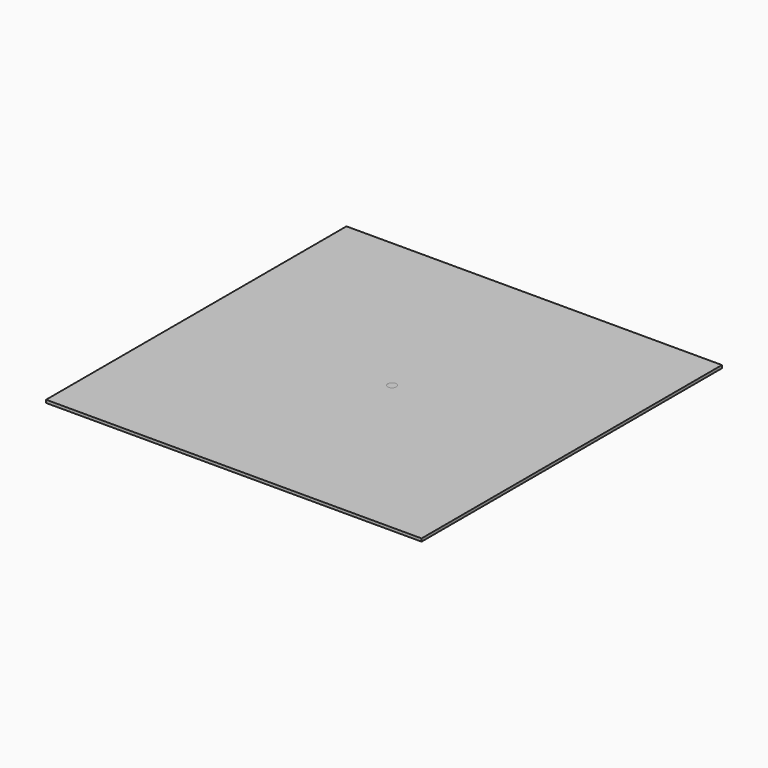
from build123d import *

# Parameters (mm, degrees)
F0_W     = 130
F0_H     = 130
F0_R     = 1.5
F1_DEPTH = 1
F2_W     = 130
F2_H     = 130
F2_R     = 2
F2_R_2   = 1.75
F2_R_3   = 1.5
F2_R_4   = 1.25
F2_R_5   = 1
F3_DEPTH = 1
F4_W     = 130
F4_H     = 130
F4_R     = 1.5
F5_DEPTH = 1
F6_W     = 130
F6_H     = 130
F6_R     = 1.5
F7_DEPTH = 1


with BuildPart() as f1:
    # F0 (on Top) → F1 (new body)
    with BuildSketch(Plane.XY):
        Rectangle(F0_W, F0_H)
        with Locations((-50, -50)):
            Circle(F0_R, mode=Mode.SUBTRACT)
        with Locations((-40, -50)):
            Circle(F0_R, mode=Mode.SUBTRACT)
        with Locations((-50, -40)):
            Circle(F0_R, mode=Mode.SUBTRACT)
        with Locations((-40, -40)):
            Circle(F0_R, mode=Mode.SUBTRACT)
        with Locations((-30, -50)):
            Circle(F0_R, mode=Mode.SUBTRACT)
        with Locations((-20, -50)):
            Circle(F0_R, mode=Mode.SUBTRACT)
        with Locations((-10, -50)):
            Circle(F0_R, mode=Mode.SUBTRACT)
        with Locations((-30, -40)):
            Circle(F0_R, mode=Mode.SUBTRACT)
        with Locations((-20, -40)):
            Circle(F0_R, mode=Mode.SUBTRACT)
        with Locations((-10, -40)):
            Circle(F0_R, mode=Mode.SUBTRACT)
        with Locations((-50, -30)):
            Circle(F0_R, mode=Mode.SUBTRACT)
        with Locations((-50, -20)):
            Circle(F0_R, mode=Mode.SUBTRACT)
        with Locations((-40, -30)):
            Circle(F0_R, mode=Mode.SUBTRACT)
        with Locations((-40, -20)):
            Circle(F0_R, mode=Mode.SUBTRACT)
        with Locations((-50, -10)):
            Circle(F0_R, mode=Mode.SUBTRACT)
        with Locations((-40, -10)):
            Circle(F0_R, mode=Mode.SUBTRACT)
        with Locations((-30, -30)):
            Circle(F0_R, mode=Mode.SUBTRACT)
        with Locations((-20, -30)):
            Circle(F0_R, mode=Mode.SUBTRACT)
        with Locations((-30, -20)):
            Circle(F0_R, mode=Mode.SUBTRACT)
        with Locations((-20, -20)):
            Circle(F0_R, mode=Mode.SUBTRACT)
        with Locations((-10, -30)):
            Circle(F0_R, mode=Mode.SUBTRACT)
        with Locations((-10, -20)):
            Circle(F0_R, mode=Mode.SUBTRACT)
        with Locations((-30, -10)):
            Circle(F0_R, mode=Mode.SUBTRACT)
        with Locations((-20, -10)):
            Circle(F0_R, mode=Mode.SUBTRACT)
        with Locations((-10, -10)):
            Circle(F0_R, mode=Mode.SUBTRACT)
        with Locations((0, -50)):
            Circle(F0_R, mode=Mode.SUBTRACT)
        with Locations((10, -50)):
            Circle(F0_R, mode=Mode.SUBTRACT)
        with Locations((20, -50)):
            Circle(F0_R, mode=Mode.SUBTRACT)
        with Locations((30, -50)):
            Circle(F0_R, mode=Mode.SUBTRACT)
        with Locations((0, -40)):
            Circle(F0_R, mode=Mode.SUBTRACT)
        with Locations((10, -40)):
            Circle(F0_R, mode=Mode.SUBTRACT)
        with Locations((20, -40)):
            Circle(F0_R, mode=Mode.SUBTRACT)
        with Locations((30, -40)):
            Circle(F0_R, mode=Mode.SUBTRACT)
        with Locations((40, -50)):
            Circle(F0_R, mode=Mode.SUBTRACT)
        with Locations((50, -50)):
            Circle(F0_R, mode=Mode.SUBTRACT)
        with Locations((40, -40)):
            Circle(F0_R, mode=Mode.SUBTRACT)
        with Locations((50, -40)):
            Circle(F0_R, mode=Mode.SUBTRACT)
        with Locations((0, -30)):
            Circle(F0_R, mode=Mode.SUBTRACT)
        with Locations((10, -30)):
            Circle(F0_R, mode=Mode.SUBTRACT)
        with Locations((0, -20)):
            Circle(F0_R, mode=Mode.SUBTRACT)
        with Locations((10, -20)):
            Circle(F0_R, mode=Mode.SUBTRACT)
        with Locations((20, -30)):
            Circle(F0_R, mode=Mode.SUBTRACT)
        with Locations((30, -30)):
            Circle(F0_R, mode=Mode.SUBTRACT)
        with Locations((20, -20)):
            Circle(F0_R, mode=Mode.SUBTRACT)
        with Locations((30, -20)):
            Circle(F0_R, mode=Mode.SUBTRACT)
        with Locations((0, -10)):
            Circle(F0_R, mode=Mode.SUBTRACT)
        with Locations((10, -10)):
            Circle(F0_R, mode=Mode.SUBTRACT)
        with Locations((20, -10)):
            Circle(F0_R, mode=Mode.SUBTRACT)
        with Locations((30, -10)):
            Circle(F0_R, mode=Mode.SUBTRACT)
        with Locations((40, -30)):
            Circle(F0_R, mode=Mode.SUBTRACT)
        with Locations((40, -20)):
            Circle(F0_R, mode=Mode.SUBTRACT)
        with Locations((50, -30)):
            Circle(F0_R, mode=Mode.SUBTRACT)
        with Locations((50, -20)):
            Circle(F0_R, mode=Mode.SUBTRACT)
        with Locations((40, -10)):
            Circle(F0_R, mode=Mode.SUBTRACT)
        with Locations((50, -10)):
            Circle(F0_R, mode=Mode.SUBTRACT)
        with Locations((-50, 0)):
            Circle(F0_R, mode=Mode.SUBTRACT)
        with Locations((-50, 10)):
            Circle(F0_R, mode=Mode.SUBTRACT)
        with Locations((-40, 0)):
            Circle(F0_R, mode=Mode.SUBTRACT)
        with Locations((-40, 10)):
            Circle(F0_R, mode=Mode.SUBTRACT)
        with Locations((-50, 20)):
            Circle(F0_R, mode=Mode.SUBTRACT)
        with Locations((-50, 30)):
            Circle(F0_R, mode=Mode.SUBTRACT)
        with Locations((-40, 20)):
            Circle(F0_R, mode=Mode.SUBTRACT)
        with Locations((-40, 30)):
            Circle(F0_R, mode=Mode.SUBTRACT)
        with Locations((-30, 0)):
            Circle(F0_R, mode=Mode.SUBTRACT)
        with Locations((-20, 0)):
            Circle(F0_R, mode=Mode.SUBTRACT)
        with Locations((-30, 10)):
            Circle(F0_R, mode=Mode.SUBTRACT)
        with Locations((-20, 10)):
            Circle(F0_R, mode=Mode.SUBTRACT)
        with Locations((-10, 0)):
            Circle(F0_R, mode=Mode.SUBTRACT)
        with Locations((-10, 10)):
            Circle(F0_R, mode=Mode.SUBTRACT)
        with Locations((-30, 20)):
            Circle(F0_R, mode=Mode.SUBTRACT)
        with Locations((-20, 20)):
            Circle(F0_R, mode=Mode.SUBTRACT)
        with Locations((-30, 30)):
            Circle(F0_R, mode=Mode.SUBTRACT)
        with Locations((-20, 30)):
            Circle(F0_R, mode=Mode.SUBTRACT)
        with Locations((-10, 20)):
            Circle(F0_R, mode=Mode.SUBTRACT)
        with Locations((-10, 30)):
            Circle(F0_R, mode=Mode.SUBTRACT)
        with Locations((-50, 40)):
            Circle(F0_R, mode=Mode.SUBTRACT)
        with Locations((-40, 40)):
            Circle(F0_R, mode=Mode.SUBTRACT)
        with Locations((-50, 50)):
            Circle(F0_R, mode=Mode.SUBTRACT)
        with Locations((-40, 50)):
            Circle(F0_R, mode=Mode.SUBTRACT)
        with Locations((-30, 40)):
            Circle(F0_R, mode=Mode.SUBTRACT)
        with Locations((-20, 40)):
            Circle(F0_R, mode=Mode.SUBTRACT)
        with Locations((-10, 40)):
            Circle(F0_R, mode=Mode.SUBTRACT)
        with Locations((-30, 50)):
            Circle(F0_R, mode=Mode.SUBTRACT)
        with Locations((-20, 50)):
            Circle(F0_R, mode=Mode.SUBTRACT)
        with Locations((-10, 50)):
            Circle(F0_R, mode=Mode.SUBTRACT)
        Circle(F0_R, mode=Mode.SUBTRACT)
        with Locations((10, 0)):
            Circle(F0_R, mode=Mode.SUBTRACT)
        with Locations((0, 10)):
            Circle(F0_R, mode=Mode.SUBTRACT)
        with Locations((10, 10)):
            Circle(F0_R, mode=Mode.SUBTRACT)
        with Locations((20, 0)):
            Circle(F0_R, mode=Mode.SUBTRACT)
        with Locations((30, 0)):
            Circle(F0_R, mode=Mode.SUBTRACT)
        with Locations((20, 10)):
            Circle(F0_R, mode=Mode.SUBTRACT)
        with Locations((30, 10)):
            Circle(F0_R, mode=Mode.SUBTRACT)
        with Locations((0, 20)):
            Circle(F0_R, mode=Mode.SUBTRACT)
        with Locations((10, 20)):
            Circle(F0_R, mode=Mode.SUBTRACT)
        with Locations((0, 30)):
            Circle(F0_R, mode=Mode.SUBTRACT)
        with Locations((10, 30)):
            Circle(F0_R, mode=Mode.SUBTRACT)
        with Locations((20, 20)):
            Circle(F0_R, mode=Mode.SUBTRACT)
        with Locations((30, 20)):
            Circle(F0_R, mode=Mode.SUBTRACT)
        with Locations((20, 30)):
            Circle(F0_R, mode=Mode.SUBTRACT)
        with Locations((30, 30)):
            Circle(F0_R, mode=Mode.SUBTRACT)
        with Locations((40, 0)):
            Circle(F0_R, mode=Mode.SUBTRACT)
        with Locations((40, 10)):
            Circle(F0_R, mode=Mode.SUBTRACT)
        with Locations((50, 0)):
            Circle(F0_R, mode=Mode.SUBTRACT)
        with Locations((50, 10)):
            Circle(F0_R, mode=Mode.SUBTRACT)
        with Locations((40, 20)):
            Circle(F0_R, mode=Mode.SUBTRACT)
        with Locations((40, 30)):
            Circle(F0_R, mode=Mode.SUBTRACT)
        with Locations((50, 20)):
            Circle(F0_R, mode=Mode.SUBTRACT)
        with Locations((50, 30)):
            Circle(F0_R, mode=Mode.SUBTRACT)
        with Locations((0, 40)):
            Circle(F0_R, mode=Mode.SUBTRACT)
        with Locations((10, 40)):
            Circle(F0_R, mode=Mode.SUBTRACT)
        with Locations((20, 40)):
            Circle(F0_R, mode=Mode.SUBTRACT)
        with Locations((30, 40)):
            Circle(F0_R, mode=Mode.SUBTRACT)
        with Locations((0, 50)):
            Circle(F0_R, mode=Mode.SUBTRACT)
        with Locations((10, 50)):
            Circle(F0_R, mode=Mode.SUBTRACT)
        with Locations((20, 50)):
            Circle(F0_R, mode=Mode.SUBTRACT)
        with Locations((30, 50)):
            Circle(F0_R, mode=Mode.SUBTRACT)
        with Locations((40, 40)):
            Circle(F0_R, mode=Mode.SUBTRACT)
        with Locations((50, 40)):
            Circle(F0_R, mode=Mode.SUBTRACT)
        with Locations((40, 50)):
            Circle(F0_R, mode=Mode.SUBTRACT)
        with Locations((50, 50)):
            Circle(F0_R, mode=Mode.SUBTRACT)
    extrude(amount=F1_DEPTH)


with BuildPart() as f3:
    # F2 (on Top) → F3 (new body)
    with BuildSketch(Plane.XY):
        Rectangle(F2_W, F2_H)
        with Locations((-42.423982, -50.558933)):
            Circle(F2_R, mode=Mode.SUBTRACT)
        with Locations((-50.558933, -42.423982)):
            Circle(F2_R, mode=Mode.SUBTRACT)
        with Locations((-34.482378, -38.922559)):
            Circle(F2_R, mode=Mode.SUBTRACT)
        with Locations((-12.444415, -50.488975)):
            Circle(F2_R, mode=Mode.SUBTRACT)
        with Locations((-24.165605, -46.043713)):
            Circle(F2_R, mode=Mode.SUBTRACT)
        with Locations((-16.696275, -35.931143)):
            Circle(F2_R_2, mode=Mode.SUBTRACT)
        with Locations((-4.775767, -39.331981)):
            Circle(F2_R_2, mode=Mode.SUBTRACT)
        with Locations((-42.795161, -29.539367)):
            Circle(F2_R, mode=Mode.SUBTRACT)
        with Locations((-48.620845, -18.439454)):
            Circle(F2_R, mode=Mode.SUBTRACT)
        with Locations((-34.627366, -19.255081)):
            Circle(F2_R_2, mode=Mode.SUBTRACT)
        with Locations((-51.620861, -6.267907)):
            Circle(F2_R, mode=Mode.SUBTRACT)
        with Locations((-38.88273, -7.612226)):
            Circle(F2_R_2, mode=Mode.SUBTRACT)
        with Locations((-26.982435, -29.013115)):
            Circle(F2_R_2, mode=Mode.SUBTRACT)
        with Locations((-20.647518, -20.647518)):
            Circle(F2_R_3, mode=Mode.SUBTRACT)
        with Locations((-11.174356, -26.977282)):
            Circle(F2_R_3, mode=Mode.SUBTRACT)
        with Locations((-8.024249, -17.132932)):
            Circle(F2_R_4, mode=Mode.SUBTRACT)
        with Locations((-26.977282, -11.174356)):
            Circle(F2_R_3, mode=Mode.SUBTRACT)
        with Locations((-18.658419, -3.128787)):
            Circle(F2_R_4, mode=Mode.SUBTRACT)
        with Locations((-15.06719, -11.441403)):
            Circle(F2_R_4, mode=Mode.SUBTRACT)
        with Locations((-6.306936, -8.680752)):
            Circle(F2_R_5, mode=Mode.SUBTRACT)
        with Locations((-10.204836, -3.315752)):
            Circle(F2_R_5, mode=Mode.SUBTRACT)
        with Locations((-3.806293, -2.765433)):
            Circle(F2_R_5, mode=Mode.SUBTRACT)
        with Locations((0, -52)):
            Circle(F2_R, mode=Mode.SUBTRACT)
        with Locations((12.444415, -50.488975)):
            Circle(F2_R, mode=Mode.SUBTRACT)
        with Locations((7.612226, -38.88273)):
            Circle(F2_R_2, mode=Mode.SUBTRACT)
        with Locations((24.165605, -46.043713)):
            Circle(F2_R, mode=Mode.SUBTRACT)
        with Locations((19.255081, -34.627366)):
            Circle(F2_R_2, mode=Mode.SUBTRACT)
        with Locations((42.423982, -50.558933)):
            Circle(F2_R, mode=Mode.SUBTRACT)
        with Locations((34.482378, -38.922559)):
            Circle(F2_R, mode=Mode.SUBTRACT)
        with Locations((50.558933, -42.423982)):
            Circle(F2_R, mode=Mode.SUBTRACT)
        with Locations((0, -29.2)):
            Circle(F2_R_3, mode=Mode.SUBTRACT)
        with Locations((11.174356, -26.977282)):
            Circle(F2_R_3, mode=Mode.SUBTRACT)
        with Locations((0.856951, -18.899512)):
            Circle(F2_R_4, mode=Mode.SUBTRACT)
        with Locations((9.541833, -16.336442)):
            Circle(F2_R_4, mode=Mode.SUBTRACT)
        with Locations((29.013115, -26.982435)):
            Circle(F2_R_2, mode=Mode.SUBTRACT)
        with Locations((20.647518, -20.647518)):
            Circle(F2_R_3, mode=Mode.SUBTRACT)
        with Locations((0, -10.73)):
            Circle(F2_R_5, mode=Mode.SUBTRACT)
        with Locations((6.306936, -8.680752)):
            Circle(F2_R_5, mode=Mode.SUBTRACT)
        with Locations((16.040797, -10.03089)):
            Circle(F2_R_4, mode=Mode.SUBTRACT)
        with Locations((1.453874, -4.474565)):
            Circle(F2_R_5, mode=Mode.SUBTRACT)
        with Locations((10.204836, -3.315752)):
            Circle(F2_R_5, mode=Mode.SUBTRACT)
        with Locations((26.977282, -11.174356)):
            Circle(F2_R_3, mode=Mode.SUBTRACT)
        with Locations((18.865007, -1.427382)):
            Circle(F2_R_4, mode=Mode.SUBTRACT)
        with Locations((42.795161, -29.539367)):
            Circle(F2_R, mode=Mode.SUBTRACT)
        with Locations((35.931143, -16.696275)):
            Circle(F2_R_2, mode=Mode.SUBTRACT)
        with Locations((48.620845, -18.439454)):
            Circle(F2_R, mode=Mode.SUBTRACT)
        with Locations((39.331981, -4.775767)):
            Circle(F2_R_2, mode=Mode.SUBTRACT)
        with Locations((51.620861, -6.267907)):
            Circle(F2_R, mode=Mode.SUBTRACT)
        with Locations((-51.620861, 6.267907)):
            Circle(F2_R, mode=Mode.SUBTRACT)
        with Locations((-39.331981, 4.775767)):
            Circle(F2_R_2, mode=Mode.SUBTRACT)
        with Locations((-48.620845, 18.439454)):
            Circle(F2_R, mode=Mode.SUBTRACT)
        with Locations((-35.931143, 16.696275)):
            Circle(F2_R_2, mode=Mode.SUBTRACT)
        with Locations((-42.795161, 29.539367)):
            Circle(F2_R, mode=Mode.SUBTRACT)
        with Locations((-29.2, 0)):
            Circle(F2_R_3, mode=Mode.SUBTRACT)
        with Locations((-17.97523, 5.900597)):
            Circle(F2_R_4, mode=Mode.SUBTRACT)
        with Locations((-26.977282, 11.174356)):
            Circle(F2_R_3, mode=Mode.SUBTRACT)
        with Locations((-10.204836, 3.315752)):
            Circle(F2_R_5, mode=Mode.SUBTRACT)
        with Locations((-3.806293, 2.765433)):
            Circle(F2_R_5, mode=Mode.SUBTRACT)
        with Locations((-13.174131, 13.578225)):
            Circle(F2_R_4, mode=Mode.SUBTRACT)
        with Locations((-6.306936, 8.680752)):
            Circle(F2_R_5, mode=Mode.SUBTRACT)
        with Locations((-20.647518, 20.647518)):
            Circle(F2_R_3, mode=Mode.SUBTRACT)
        with Locations((-29.013115, 26.982435)):
            Circle(F2_R_2, mode=Mode.SUBTRACT)
        with Locations((-5.354998, 18.145245)):
            Circle(F2_R_4, mode=Mode.SUBTRACT)
        with Locations((-11.174356, 26.977282)):
            Circle(F2_R_3, mode=Mode.SUBTRACT)
        with Locations((-50.558933, 42.423982)):
            Circle(F2_R, mode=Mode.SUBTRACT)
        with Locations((-34.482378, 38.922559)):
            Circle(F2_R, mode=Mode.SUBTRACT)
        with Locations((-42.423982, 50.558933)):
            Circle(F2_R, mode=Mode.SUBTRACT)
        with Locations((-19.255081, 34.627366)):
            Circle(F2_R_2, mode=Mode.SUBTRACT)
        with Locations((-24.165605, 46.043713)):
            Circle(F2_R, mode=Mode.SUBTRACT)
        with Locations((-7.612226, 38.88273)):
            Circle(F2_R_2, mode=Mode.SUBTRACT)
        with Locations((-12.444415, 50.488975)):
            Circle(F2_R, mode=Mode.SUBTRACT)
        Circle(F2_R_5, mode=Mode.SUBTRACT)
        with Locations((4.704836, 0)):
            Circle(F2_R_5, mode=Mode.SUBTRACT)
        with Locations((1.453874, 4.474565)):
            Circle(F2_R_5, mode=Mode.SUBTRACT)
        with Locations((10.204836, 3.315752)):
            Circle(F2_R_5, mode=Mode.SUBTRACT)
        with Locations((0, 10.73)):
            Circle(F2_R_5, mode=Mode.SUBTRACT)
        with Locations((6.306936, 8.680752)):
            Circle(F2_R_5, mode=Mode.SUBTRACT)
        with Locations((11.891258, 14.714751)):
            Circle(F2_R_4, mode=Mode.SUBTRACT)
        with Locations((17.367472, 7.503122)):
            Circle(F2_R_4, mode=Mode.SUBTRACT)
        with Locations((29.2, 0)):
            Circle(F2_R_3, mode=Mode.SUBTRACT)
        with Locations((26.977282, 11.174356)):
            Circle(F2_R_3, mode=Mode.SUBTRACT)
        with Locations((3.6909, 18.555408)):
            Circle(F2_R_4, mode=Mode.SUBTRACT)
        with Locations((0, 29.2)):
            Circle(F2_R_3, mode=Mode.SUBTRACT)
        with Locations((11.174356, 26.977282)):
            Circle(F2_R_3, mode=Mode.SUBTRACT)
        with Locations((20.647518, 20.647518)):
            Circle(F2_R_3, mode=Mode.SUBTRACT)
        with Locations((26.982435, 29.013115)):
            Circle(F2_R_2, mode=Mode.SUBTRACT)
        with Locations((38.88273, 7.612226)):
            Circle(F2_R_2, mode=Mode.SUBTRACT)
        with Locations((51.620861, 6.267907)):
            Circle(F2_R, mode=Mode.SUBTRACT)
        with Locations((34.627366, 19.255081)):
            Circle(F2_R_2, mode=Mode.SUBTRACT)
        with Locations((48.620845, 18.439454)):
            Circle(F2_R, mode=Mode.SUBTRACT)
        with Locations((42.795161, 29.539367)):
            Circle(F2_R, mode=Mode.SUBTRACT)
        with Locations((4.775767, 39.331981)):
            Circle(F2_R_2, mode=Mode.SUBTRACT)
        with Locations((16.696275, 35.931143)):
            Circle(F2_R_2, mode=Mode.SUBTRACT)
        with Locations((24.165605, 46.043713)):
            Circle(F2_R, mode=Mode.SUBTRACT)
        with Locations((0, 52)):
            Circle(F2_R, mode=Mode.SUBTRACT)
        with Locations((12.444415, 50.488975)):
            Circle(F2_R, mode=Mode.SUBTRACT)
        with Locations((34.482378, 38.922559)):
            Circle(F2_R, mode=Mode.SUBTRACT)
        with Locations((50.558933, 42.423982)):
            Circle(F2_R, mode=Mode.SUBTRACT)
        with Locations((42.423982, 50.558933)):
            Circle(F2_R, mode=Mode.SUBTRACT)
    extrude(amount=F3_DEPTH)


with BuildPart() as f5:
    # F4 (on Top) → F5 (new body)
    with BuildSketch(Plane.XY):
        Rectangle(F4_W, F4_H)
        with Locations((-52, -52)):
            Circle(F4_R, mode=Mode.SUBTRACT)
        with Locations((-39, -52)):
            Circle(F4_R, mode=Mode.SUBTRACT)
        with Locations((-52, -39)):
            Circle(F4_R, mode=Mode.SUBTRACT)
        with Locations((-45.5, -45.5)):
            Circle(F4_R, mode=Mode.SUBTRACT)
        with Locations((-39, -39)):
            Circle(F4_R, mode=Mode.SUBTRACT)
        with Locations((-26, -52)):
            Circle(F4_R, mode=Mode.SUBTRACT)
        with Locations((-13, -52)):
            Circle(F4_R, mode=Mode.SUBTRACT)
        with Locations((-32.5, -45.5)):
            Circle(F4_R, mode=Mode.SUBTRACT)
        with Locations((-19.5, -45.5)):
            Circle(F4_R, mode=Mode.SUBTRACT)
        with Locations((-26, -39)):
            Circle(F4_R, mode=Mode.SUBTRACT)
        with Locations((-6.5, -45.5)):
            Circle(F4_R, mode=Mode.SUBTRACT)
        with Locations((-13, -39)):
            Circle(F4_R, mode=Mode.SUBTRACT)
        with Locations((-52, -26)):
            Circle(F4_R, mode=Mode.SUBTRACT)
        with Locations((-45.5, -32.5)):
            Circle(F4_R, mode=Mode.SUBTRACT)
        with Locations((-39, -26)):
            Circle(F4_R, mode=Mode.SUBTRACT)
        with Locations((-45.5, -19.5)):
            Circle(F4_R, mode=Mode.SUBTRACT)
        with Locations((-52, -13)):
            Circle(F4_R, mode=Mode.SUBTRACT)
        with Locations((-39, -13)):
            Circle(F4_R, mode=Mode.SUBTRACT)
        with Locations((-45.5, -6.5)):
            Circle(F4_R, mode=Mode.SUBTRACT)
        with Locations((-32.5, -32.5)):
            Circle(F4_R, mode=Mode.SUBTRACT)
        with Locations((-26, -26)):
            Circle(F4_R, mode=Mode.SUBTRACT)
        with Locations((-19.5, -32.5)):
            Circle(F4_R, mode=Mode.SUBTRACT)
        with Locations((-32.5, -19.5)):
            Circle(F4_R, mode=Mode.SUBTRACT)
        with Locations((-19.5, -19.5)):
            Circle(F4_R, mode=Mode.SUBTRACT)
        with Locations((-13, -26)):
            Circle(F4_R, mode=Mode.SUBTRACT)
        with Locations((-6.5, -32.5)):
            Circle(F4_R, mode=Mode.SUBTRACT)
        with Locations((-6.5, -19.5)):
            Circle(F4_R, mode=Mode.SUBTRACT)
        with Locations((-26, -13)):
            Circle(F4_R, mode=Mode.SUBTRACT)
        with Locations((-32.5, -6.5)):
            Circle(F4_R, mode=Mode.SUBTRACT)
        with Locations((-19.5, -6.5)):
            Circle(F4_R, mode=Mode.SUBTRACT)
        with Locations((-13, -13)):
            Circle(F4_R, mode=Mode.SUBTRACT)
        with Locations((-6.5, -6.5)):
            Circle(F4_R, mode=Mode.SUBTRACT)
        with Locations((0, -52)):
            Circle(F4_R, mode=Mode.SUBTRACT)
        with Locations((13, -52)):
            Circle(F4_R, mode=Mode.SUBTRACT)
        with Locations((26, -52)):
            Circle(F4_R, mode=Mode.SUBTRACT)
        with Locations((6.5, -45.5)):
            Circle(F4_R, mode=Mode.SUBTRACT)
        with Locations((0, -39)):
            Circle(F4_R, mode=Mode.SUBTRACT)
        with Locations((13, -39)):
            Circle(F4_R, mode=Mode.SUBTRACT)
        with Locations((19.5, -45.5)):
            Circle(F4_R, mode=Mode.SUBTRACT)
        with Locations((26, -39)):
            Circle(F4_R, mode=Mode.SUBTRACT)
        with Locations((39, -52)):
            Circle(F4_R, mode=Mode.SUBTRACT)
        with Locations((52, -52)):
            Circle(F4_R, mode=Mode.SUBTRACT)
        with Locations((32.5, -45.5)):
            Circle(F4_R, mode=Mode.SUBTRACT)
        with Locations((45.5, -45.5)):
            Circle(F4_R, mode=Mode.SUBTRACT)
        with Locations((39, -39)):
            Circle(F4_R, mode=Mode.SUBTRACT)
        with Locations((52, -39)):
            Circle(F4_R, mode=Mode.SUBTRACT)
        with Locations((6.5, -32.5)):
            Circle(F4_R, mode=Mode.SUBTRACT)
        with Locations((0, -26)):
            Circle(F4_R, mode=Mode.SUBTRACT)
        with Locations((13, -26)):
            Circle(F4_R, mode=Mode.SUBTRACT)
        with Locations((6.5, -19.5)):
            Circle(F4_R, mode=Mode.SUBTRACT)
        with Locations((19.5, -32.5)):
            Circle(F4_R, mode=Mode.SUBTRACT)
        with Locations((26, -26)):
            Circle(F4_R, mode=Mode.SUBTRACT)
        with Locations((19.5, -19.5)):
            Circle(F4_R, mode=Mode.SUBTRACT)
        with Locations((0, -13)):
            Circle(F4_R, mode=Mode.SUBTRACT)
        with Locations((13, -13)):
            Circle(F4_R, mode=Mode.SUBTRACT)
        with Locations((6.5, -6.5)):
            Circle(F4_R, mode=Mode.SUBTRACT)
        with Locations((26, -13)):
            Circle(F4_R, mode=Mode.SUBTRACT)
        with Locations((19.5, -6.5)):
            Circle(F4_R, mode=Mode.SUBTRACT)
        with Locations((32.5, -32.5)):
            Circle(F4_R, mode=Mode.SUBTRACT)
        with Locations((39, -26)):
            Circle(F4_R, mode=Mode.SUBTRACT)
        with Locations((45.5, -32.5)):
            Circle(F4_R, mode=Mode.SUBTRACT)
        with Locations((32.5, -19.5)):
            Circle(F4_R, mode=Mode.SUBTRACT)
        with Locations((45.5, -19.5)):
            Circle(F4_R, mode=Mode.SUBTRACT)
        with Locations((52, -26)):
            Circle(F4_R, mode=Mode.SUBTRACT)
        with Locations((39, -13)):
            Circle(F4_R, mode=Mode.SUBTRACT)
        with Locations((32.5, -6.5)):
            Circle(F4_R, mode=Mode.SUBTRACT)
        with Locations((45.5, -6.5)):
            Circle(F4_R, mode=Mode.SUBTRACT)
        with Locations((52, -13)):
            Circle(F4_R, mode=Mode.SUBTRACT)
        with Locations((-52, 0)):
            Circle(F4_R, mode=Mode.SUBTRACT)
        with Locations((-52, 13)):
            Circle(F4_R, mode=Mode.SUBTRACT)
        with Locations((-45.5, 6.5)):
            Circle(F4_R, mode=Mode.SUBTRACT)
        with Locations((-39, 0)):
            Circle(F4_R, mode=Mode.SUBTRACT)
        with Locations((-39, 13)):
            Circle(F4_R, mode=Mode.SUBTRACT)
        with Locations((-52, 26)):
            Circle(F4_R, mode=Mode.SUBTRACT)
        with Locations((-45.5, 19.5)):
            Circle(F4_R, mode=Mode.SUBTRACT)
        with Locations((-39, 26)):
            Circle(F4_R, mode=Mode.SUBTRACT)
        with Locations((-26, 0)):
            Circle(F4_R, mode=Mode.SUBTRACT)
        with Locations((-32.5, 6.5)):
            Circle(F4_R, mode=Mode.SUBTRACT)
        with Locations((-19.5, 6.5)):
            Circle(F4_R, mode=Mode.SUBTRACT)
        with Locations((-26, 13)):
            Circle(F4_R, mode=Mode.SUBTRACT)
        with Locations((-13, 0)):
            Circle(F4_R, mode=Mode.SUBTRACT)
        with Locations((-6.5, 6.5)):
            Circle(F4_R, mode=Mode.SUBTRACT)
        with Locations((-13, 13)):
            Circle(F4_R, mode=Mode.SUBTRACT)
        with Locations((-32.5, 19.5)):
            Circle(F4_R, mode=Mode.SUBTRACT)
        with Locations((-19.5, 19.5)):
            Circle(F4_R, mode=Mode.SUBTRACT)
        with Locations((-26, 26)):
            Circle(F4_R, mode=Mode.SUBTRACT)
        with Locations((-6.5, 19.5)):
            Circle(F4_R, mode=Mode.SUBTRACT)
        with Locations((-13, 26)):
            Circle(F4_R, mode=Mode.SUBTRACT)
        with Locations((-52, 39)):
            Circle(F4_R, mode=Mode.SUBTRACT)
        with Locations((-45.5, 32.5)):
            Circle(F4_R, mode=Mode.SUBTRACT)
        with Locations((-39, 39)):
            Circle(F4_R, mode=Mode.SUBTRACT)
        with Locations((-45.5, 45.5)):
            Circle(F4_R, mode=Mode.SUBTRACT)
        with Locations((-52, 52)):
            Circle(F4_R, mode=Mode.SUBTRACT)
        with Locations((-39, 52)):
            Circle(F4_R, mode=Mode.SUBTRACT)
        with Locations((-32.5, 32.5)):
            Circle(F4_R, mode=Mode.SUBTRACT)
        with Locations((-26, 39)):
            Circle(F4_R, mode=Mode.SUBTRACT)
        with Locations((-19.5, 32.5)):
            Circle(F4_R, mode=Mode.SUBTRACT)
        with Locations((-32.5, 45.5)):
            Circle(F4_R, mode=Mode.SUBTRACT)
        with Locations((-19.5, 45.5)):
            Circle(F4_R, mode=Mode.SUBTRACT)
        with Locations((-13, 39)):
            Circle(F4_R, mode=Mode.SUBTRACT)
        with Locations((-6.5, 32.5)):
            Circle(F4_R, mode=Mode.SUBTRACT)
        with Locations((-6.5, 45.5)):
            Circle(F4_R, mode=Mode.SUBTRACT)
        with Locations((-26, 52)):
            Circle(F4_R, mode=Mode.SUBTRACT)
        with Locations((-13, 52)):
            Circle(F4_R, mode=Mode.SUBTRACT)
        Circle(F4_R, mode=Mode.SUBTRACT)
        with Locations((6.5, 6.5)):
            Circle(F4_R, mode=Mode.SUBTRACT)
        with Locations((13, 0)):
            Circle(F4_R, mode=Mode.SUBTRACT)
        with Locations((0, 13)):
            Circle(F4_R, mode=Mode.SUBTRACT)
        with Locations((13, 13)):
            Circle(F4_R, mode=Mode.SUBTRACT)
        with Locations((19.5, 6.5)):
            Circle(F4_R, mode=Mode.SUBTRACT)
        with Locations((26, 0)):
            Circle(F4_R, mode=Mode.SUBTRACT)
        with Locations((26, 13)):
            Circle(F4_R, mode=Mode.SUBTRACT)
        with Locations((6.5, 19.5)):
            Circle(F4_R, mode=Mode.SUBTRACT)
        with Locations((0, 26)):
            Circle(F4_R, mode=Mode.SUBTRACT)
        with Locations((13, 26)):
            Circle(F4_R, mode=Mode.SUBTRACT)
        with Locations((19.5, 19.5)):
            Circle(F4_R, mode=Mode.SUBTRACT)
        with Locations((26, 26)):
            Circle(F4_R, mode=Mode.SUBTRACT)
        with Locations((39, 0)):
            Circle(F4_R, mode=Mode.SUBTRACT)
        with Locations((32.5, 6.5)):
            Circle(F4_R, mode=Mode.SUBTRACT)
        with Locations((45.5, 6.5)):
            Circle(F4_R, mode=Mode.SUBTRACT)
        with Locations((39, 13)):
            Circle(F4_R, mode=Mode.SUBTRACT)
        with Locations((52, 0)):
            Circle(F4_R, mode=Mode.SUBTRACT)
        with Locations((52, 13)):
            Circle(F4_R, mode=Mode.SUBTRACT)
        with Locations((32.5, 19.5)):
            Circle(F4_R, mode=Mode.SUBTRACT)
        with Locations((45.5, 19.5)):
            Circle(F4_R, mode=Mode.SUBTRACT)
        with Locations((39, 26)):
            Circle(F4_R, mode=Mode.SUBTRACT)
        with Locations((52, 26)):
            Circle(F4_R, mode=Mode.SUBTRACT)
        with Locations((6.5, 32.5)):
            Circle(F4_R, mode=Mode.SUBTRACT)
        with Locations((0, 39)):
            Circle(F4_R, mode=Mode.SUBTRACT)
        with Locations((13, 39)):
            Circle(F4_R, mode=Mode.SUBTRACT)
        with Locations((6.5, 45.5)):
            Circle(F4_R, mode=Mode.SUBTRACT)
        with Locations((19.5, 32.5)):
            Circle(F4_R, mode=Mode.SUBTRACT)
        with Locations((26, 39)):
            Circle(F4_R, mode=Mode.SUBTRACT)
        with Locations((19.5, 45.5)):
            Circle(F4_R, mode=Mode.SUBTRACT)
        with Locations((0, 52)):
            Circle(F4_R, mode=Mode.SUBTRACT)
        with Locations((13, 52)):
            Circle(F4_R, mode=Mode.SUBTRACT)
        with Locations((26, 52)):
            Circle(F4_R, mode=Mode.SUBTRACT)
        with Locations((32.5, 32.5)):
            Circle(F4_R, mode=Mode.SUBTRACT)
        with Locations((39, 39)):
            Circle(F4_R, mode=Mode.SUBTRACT)
        with Locations((45.5, 32.5)):
            Circle(F4_R, mode=Mode.SUBTRACT)
        with Locations((32.5, 45.5)):
            Circle(F4_R, mode=Mode.SUBTRACT)
        with Locations((45.5, 45.5)):
            Circle(F4_R, mode=Mode.SUBTRACT)
        with Locations((52, 39)):
            Circle(F4_R, mode=Mode.SUBTRACT)
        with Locations((39, 52)):
            Circle(F4_R, mode=Mode.SUBTRACT)
        with Locations((52, 52)):
            Circle(F4_R, mode=Mode.SUBTRACT)
    extrude(amount=F5_DEPTH)


with BuildPart() as f7:
    # F6 (on Top) → F7 (new body)
    with BuildSketch(Plane.XY):
        Rectangle(F6_W, F6_H)
        with Locations((2.780033, 0)):
            Circle(F6_R, mode=Mode.SUBTRACT)
    extrude(amount=F7_DEPTH)


solid = Compound([f1.part, f3.part, f5.part, f7.part])
